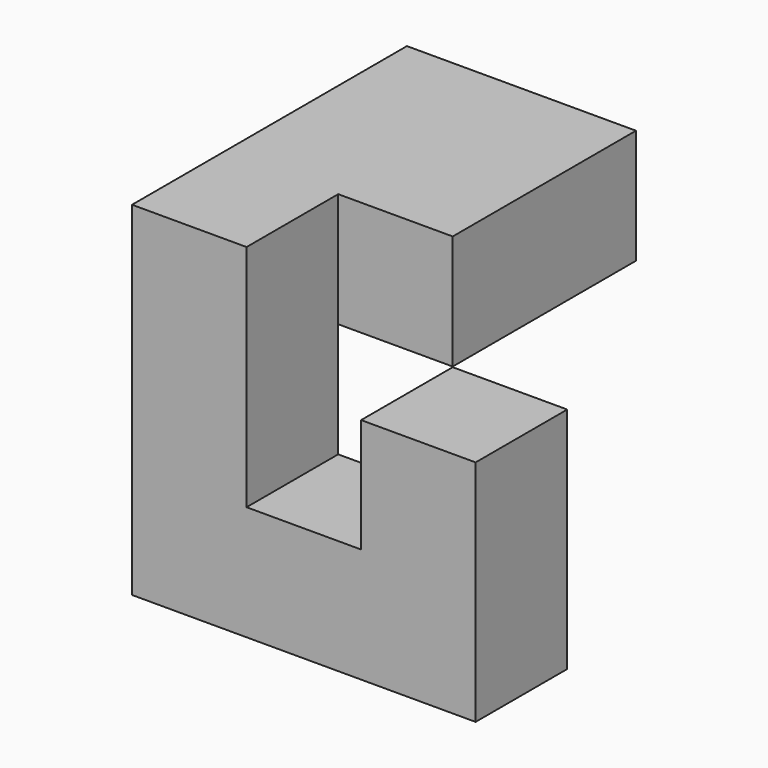
from build123d import *

# Parameters (mm, degrees)
F0_W     = 20
F0_H     = 20
F1_DEPTH = 60
F2_W     = 40
F2_H     = 20
F3_DEPTH = 20
F4_W     = 20
F4_H     = 20
F5_DEPTH = 40
F6_W     = 20
F6_H     = 20
F7_DEPTH = 40
F8_W     = 20
F8_H     = 20
F9_DEPTH = 19.9


with BuildPart() as f1:
    # F0 (on Front) → F1 (new body)
    with BuildSketch(Plane.XZ):
        Rectangle(F0_W, F0_H)
    extrude(amount=F1_DEPTH)

    # F2 (on face) → F3 (join)
    with BuildSketch(Plane.YZ.offset(10)):
        with Locations((-20, 0)):
            Rectangle(F2_W, F2_H)
    extrude(amount=F3_DEPTH)

    # F4 (on face) → F5 (join)
    with BuildSketch(Plane(origin=(0, 0, -10), x_dir=(1, 0, 0), z_dir=(0, 0, -1))):
        with Locations((0, 50)):
            Rectangle(F4_W, F4_H)
    extrude(amount=F5_DEPTH)

    # F6 (on face) → F7 (join)
    with BuildSketch(Plane.YZ.offset(10)):
        with Locations((-50, -40)):
            Rectangle(F6_W, F6_H)
    extrude(amount=F7_DEPTH)

    # F8 (on face) → F9 (join)
    with BuildSketch(Plane.XY.offset(-30)):
        with Locations((40, -50)):
            Rectangle(F8_W, F8_H)
    extrude(amount=F9_DEPTH)


solid = f1.part
